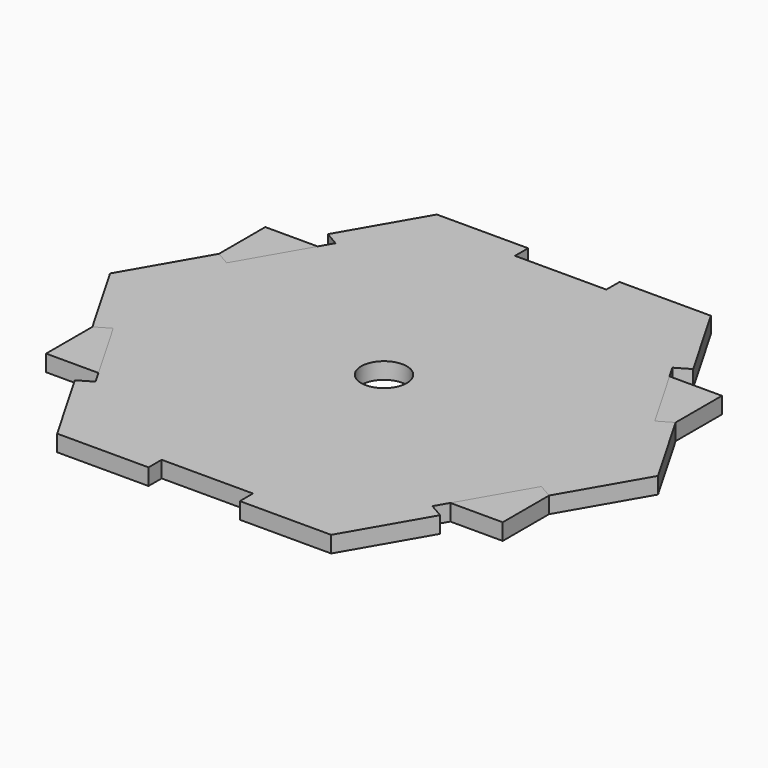
from build123d import *

# Parameters (mm, degrees)
F2_DEPTH = 18
F0_R     = 25
F3_DEPTH = 18


with BuildPart() as f2:
    # F1 (on Top) → F2 (new body)
    with BuildSketch(Plane.XY):
        Polygon((-250, -150), (250, -150), (250, -49.876846), (268, -49.876846), (268, 49.876846), (250, 49.876846), (250, 150), (-250, 150), (-250, 49.876846), (-268, 49.876846), (-268, -49.876846), (-250, -49.876846), align=None)
        with BuildLine():
            ThreePointArc((207.216233, -60.72588), (192.571572, -96.081219), (157.216233, -110.72588))
            Line((157.216233, -110.72588), (-157.216233, -110.72588))
            ThreePointArc((-157.216233, -110.72588), (-192.571572, -96.081219), (-207.216233, -60.72588))
            Line((-207.216233, -60.72588), (-207.216233, 60.72588))
            ThreePointArc((-207.216233, 60.72588), (-192.571572, 96.081219), (-157.216233, 110.72588))
            Line((-157.216233, 110.72588), (157.216233, 110.72588))
            ThreePointArc((157.216233, 110.72588), (192.571572, 96.081219), (207.216233, 60.72588))
            Line((207.216233, 60.72588), (207.216233, -60.72588))
        make_face(mode=Mode.SUBTRACT)
    extrude(amount=F2_DEPTH)


with BuildPart() as f3:
    # F0 (on Top) → F3 (new body)
    with BuildSketch(Plane.XY):
        Polygon((50, -259.807621), (150, -259.807621), (200, -173.205081), (184.411543, -164.205081), (234.411543, -77.60254), (250, -86.60254), (300, 0), (250, 86.60254), (234.411543, 77.60254), (184.411543, 164.205081), (200, 173.205081), (150, 259.807621), (50, 259.807621), (50, 241.807621), (-50, 241.807621), (-50, 259.807621), (-150, 259.807621), (-200, 173.205081), (-184.411543, 164.205081), (-234.411543, 77.60254), (-250, 86.60254), (-300, 0), (-250, -86.60254), (-234.411543, -77.60254), (-184.411543, -164.205081), (-200, -173.205081), (-150, -259.807621), (-50, -259.807621), (-50, -241.807621), (50, -241.807621), align=None)
        Circle(F0_R, mode=Mode.SUBTRACT)
    extrude(amount=F3_DEPTH)


solid = Compound([f2.part, f3.part])
